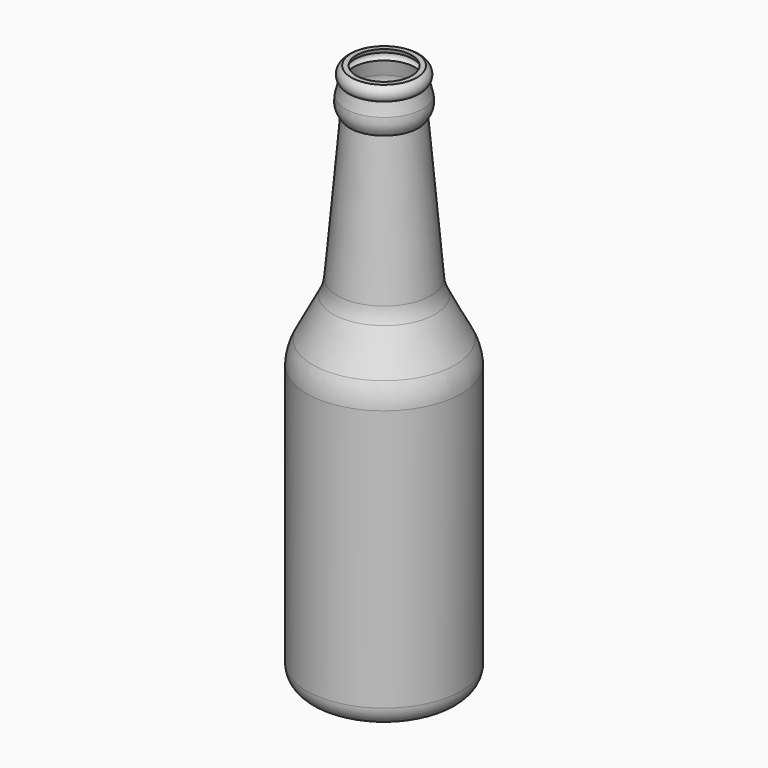
from build123d import *


with BuildPart() as f1:
    # F0 (on Front) → F1 (revolve)
    with BuildSketch(Plane.XZ):
        with BuildLine():
            Line((24.405184, 198.331723), (17.876833, 272.918112))
            ThreePointArc((17.876833, 272.918112), (20.079141, 277.404729), (20.046886, 282.402614))
            Line((20.046886, 282.402614), (18.487563, 288.834826))
            ThreePointArc((18.487563, 288.834826), (19.502235, 292.667318), (17.03576, 295.771197))
            Line((17.03576, 295.771197), (14.417694, 295.771197))
            Line((14.417694, 295.771197), (15.164909, 293.745887))
            Line((15.164909, 293.745887), (16.516526, 293.745887))
            ThreePointArc((16.516526, 293.745887), (17.564404, 291.589056), (16.216711, 289.605703))
            Line((16.216711, 289.605703), (18.078588, 281.925452))
            ThreePointArc((18.078588, 281.925452), (18.007993, 277.472708), (15.782764, 273.615213))
            Line((15.782764, 273.615213), (22.387587, 198.155128))
            ThreePointArc((22.387587, 198.155128), (23.208486, 193.78187), (24.86737, 189.653025))
            Line((24.86737, 189.653025), (35.201387, 169.816986))
            ThreePointArc((35.201387, 169.816986), (37.313372, 164.377703), (38.188381, 158.608766))
            Line((38.188381, 158.608766), (38.188381, 98.318713))
            Line((38.188381, 98.318713), (38.188381, 22.598952))
            ThreePointArc((38.188381, 22.598952), (36.667652, 17.794326), (32.659364, 14.739709))
            Line((32.659364, 14.739709), (28.961076, 13.412118))
            Line((28.961076, 13.412118), (0, 13.412118))
            Line((0, 13.412118), (0, 11.386808))
            Line((0, 11.386808), (29.313581, 11.386808))
            Line((29.313581, 11.386808), (33.343645, 12.833498))
            ThreePointArc((33.343645, 12.833498), (38.324118, 16.628993), (40.213691, 22.598952))
            Line((40.213691, 22.598952), (40.213691, 98.318713))
            Line((40.213691, 98.318713), (40.213691, 158.649141))
            ThreePointArc((40.213691, 158.649141), (39.275764, 164.879008), (36.997561, 170.752742))
            Line((36.997561, 170.752742), (26.663544, 190.588781))
            ThreePointArc((26.663544, 190.588781), (25.152784, 194.348958), (24.405184, 198.331723))
        make_face()
    revolve(axis=Axis((0, 0, 133.068923), (0, 0, 1)))


solid = f1.part
